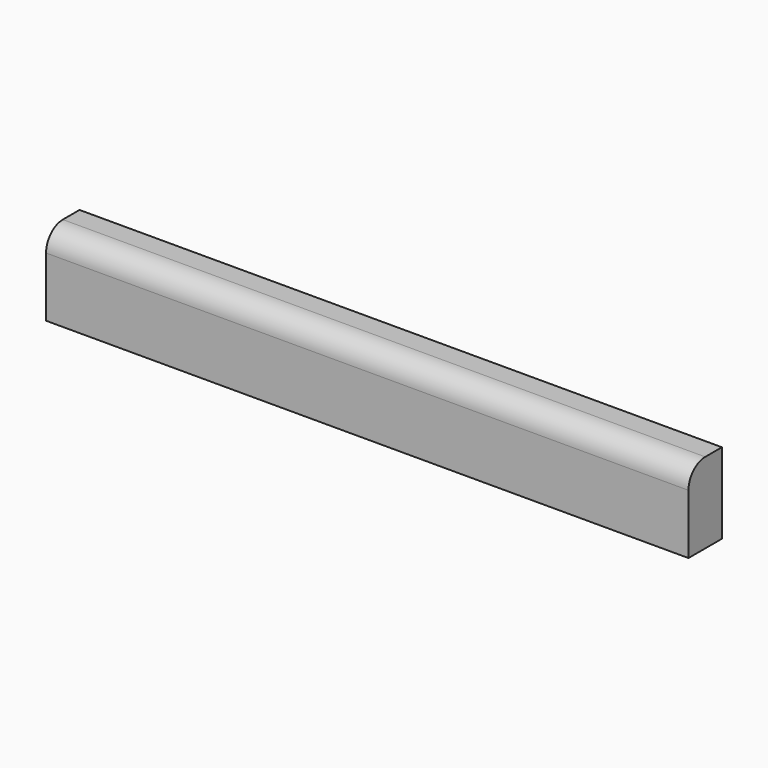
from build123d import *

# Parameters (mm, degrees)
F1_DEPTH = 10.16
F2_R     = 5.08


with BuildPart() as f1:
    # F0 (on Front) → F1 (new body)
    with BuildSketch(Plane.XZ):
        Polygon((77.562474, 0), (0, 0), (-78.607082, 0), (-78.607082, -19.587653), (77.562474, -19.587653), align=None)
    extrude(amount=F1_DEPTH)

    # F2
    f2_edges = [f1.edges().sort_by_distance(p)[0] for p in [
        (-0.522304, -10.16, 0),
    ]]
    fillet(f2_edges, radius=F2_R)


solid = f1.part
